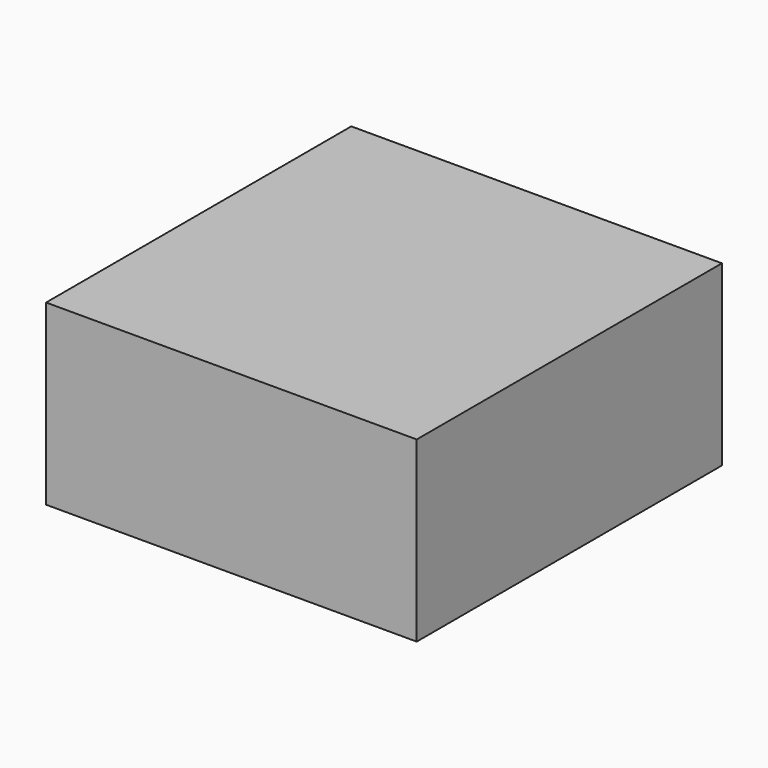
from build123d import *

# Parameters (mm, degrees)
F0_W     = 151.305318
F0_H     = 155.737698
F1_DEPTH = 72.669839
F2_W     = 112.315074
F2_H     = 116.743118
F3_DEPTH = 68.796853


with BuildPart() as f1:
    # F0 (on Top) → F1 (new body)
    with BuildSketch(Plane.XY):
        Rectangle(F0_W, F0_H)
    extrude(amount=F1_DEPTH)

    # F2 (on face) → F3 (cut)
    with BuildSketch(Plane(origin=(0, 0, 0), x_dir=(1, 0, 0), z_dir=(0, 0, -1))):
        Rectangle(F2_W, F2_H)
    extrude(amount=-F3_DEPTH, mode=Mode.SUBTRACT)


solid = f1.part
